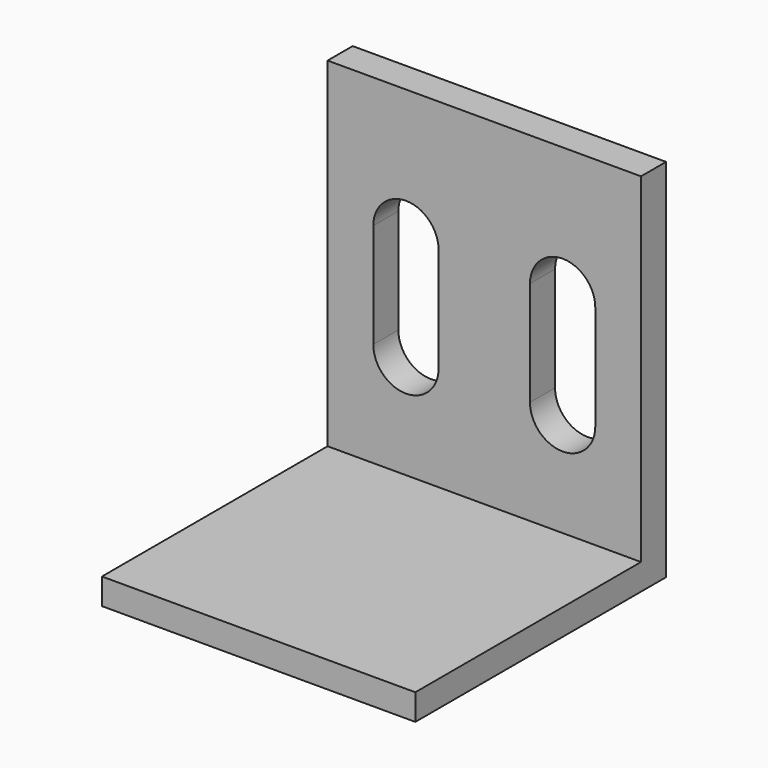
from build123d import *

# Parameters (mm, degrees)
F0_W     = 76.2
F0_H     = 82.55
F0_H_2   = 6.35
F1_DEPTH = 7.62
F2_DEPTH = 76.2


with BuildPart() as f1:
    # F0 (on Front) → F1 (new body)
    with BuildSketch(Plane.XZ):
        with Locations((0, 3.175)):
            Rectangle(F0_W, F0_H)
        with BuildLine():
            Line((-26.9875, 0), (-26.9875, 12.7))
            ThreePointArc((-26.9875, 12.7), (-19.05, 20.6375), (-11.1125, 12.7))
            Line((-11.1125, 12.7), (-11.1125, 0))
            Line((-11.1125, 0), (-11.1125, -12.7))
            ThreePointArc((-11.1125, -12.7), (-19.05, -20.6375), (-26.9875, -12.7))
            Line((-26.9875, -12.7), (-26.9875, 0))
        make_face(mode=Mode.SUBTRACT)
        with BuildLine():
            Line((11.1125, 0), (11.1125, 12.7))
            ThreePointArc((11.1125, 12.7), (19.05, 20.6375), (26.9875, 12.7))
            Line((26.9875, 12.7), (26.9875, 0))
            Line((26.9875, 0), (26.9875, -12.7))
            ThreePointArc((26.9875, -12.7), (19.05, -20.6375), (11.1125, -12.7))
            Line((11.1125, -12.7), (11.1125, 0))
        make_face(mode=Mode.SUBTRACT)
        with Locations((0, -41.275)):
            Rectangle(F0_W, F0_H_2)
    extrude(amount=F1_DEPTH)

    # F0 (on Front) → F2 (join)
    with BuildSketch(Plane.XZ):
        with Locations((0, -41.275)):
            Rectangle(F0_W, F0_H_2)
    extrude(amount=F2_DEPTH)


solid = f1.part
